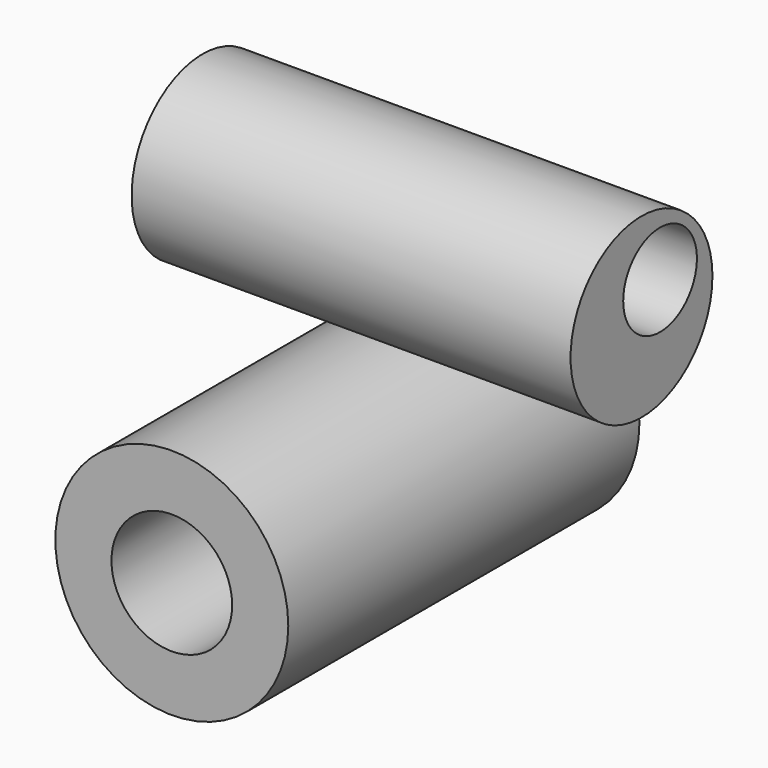
from build123d import *

# Parameters (mm, degrees)
F0_R     = 33.697277
F1_DEPTH = 127
F2_R     = 17.4625
F3_DEPTH = 146.304
F4_R     = 25.652276
F5_DEPTH = 127
F6_R     = 13.324732
F7_DEPTH = 127


with BuildPart() as f1:
    # F0 (on Front) → F1 (new body)
    with BuildSketch(Plane.XZ):
        Circle(F0_R)
    extrude(amount=F1_DEPTH)

    # F2 (on face) → F3 (cut)
    with BuildSketch(Plane.XZ.offset(127)):
        Circle(F2_R)
    extrude(amount=-F3_DEPTH, mode=Mode.SUBTRACT)


with BuildPart() as f5:
    # F4 (on Right) → F5 (new body)
    with BuildSketch(Plane.YZ):
        with Locations((-115.872189, 104.540773)):
            Circle(F4_R)
    extrude(amount=F5_DEPTH)

    # F6 (on face) → F7 (cut)
    with BuildSketch(Plane(origin=(0, 0, 0), x_dir=(0, -1, 0), z_dir=(-1, 0, 0))):
        with Locations((109.168321, 111.244656)):
            Circle(F6_R)
    extrude(amount=-F7_DEPTH, mode=Mode.SUBTRACT)


solid = Compound([f1.part, f5.part])
